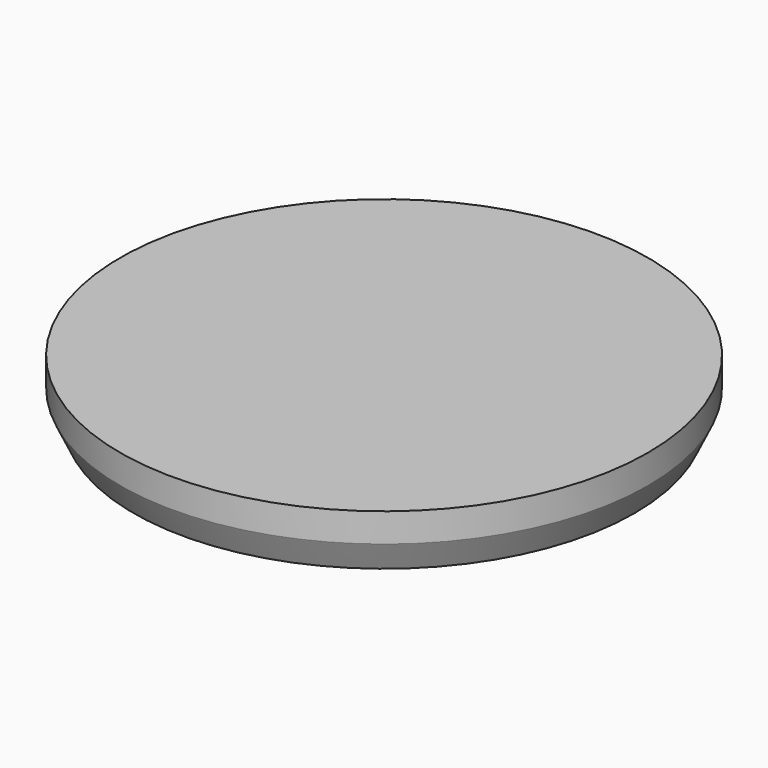
from build123d import *

# Parameters (mm, degrees)
F0_R     = 165
F1_DEPTH = 36
F2_W     = 36
F2_H     = 18
F3_DEPTH = 18
F4_SIZE2 = 8.393538
F4_SIZE  = 18


with BuildPart() as f1:
    # F0 (on Top) → F1 (new body)
    with BuildSketch(Plane.XY):
        Circle(F0_R)
    extrude(amount=F1_DEPTH)

    # F2 (on face) → F3 (cut)
    with BuildSketch(Plane(origin=(0, 0, 0), x_dir=(1, 0, 0), z_dir=(0, 0, -1))):
        Polygon((-9, 120.176915), (-24.588457, 111.176915), (-6.588457, 80), (9, 89), align=None)
        with Locations((90.576261, -43.294229)):
            Rectangle(F2_W, F2_H)
        Polygon((-81.576261, -36.705771), (-99.576261, -67.882686), (-83.987804, -76.882686), (-65.987804, -45.705771), align=None)
    extrude(amount=-F3_DEPTH, mode=Mode.SUBTRACT)

    # F4
    f4_edges = [f1.edges().sort_by_distance(p)[0] for p in [
        (-165, 0, 0),
    ]]
    chamfer(f4_edges, length=F4_SIZE, length2=F4_SIZE2)


solid = f1.part
